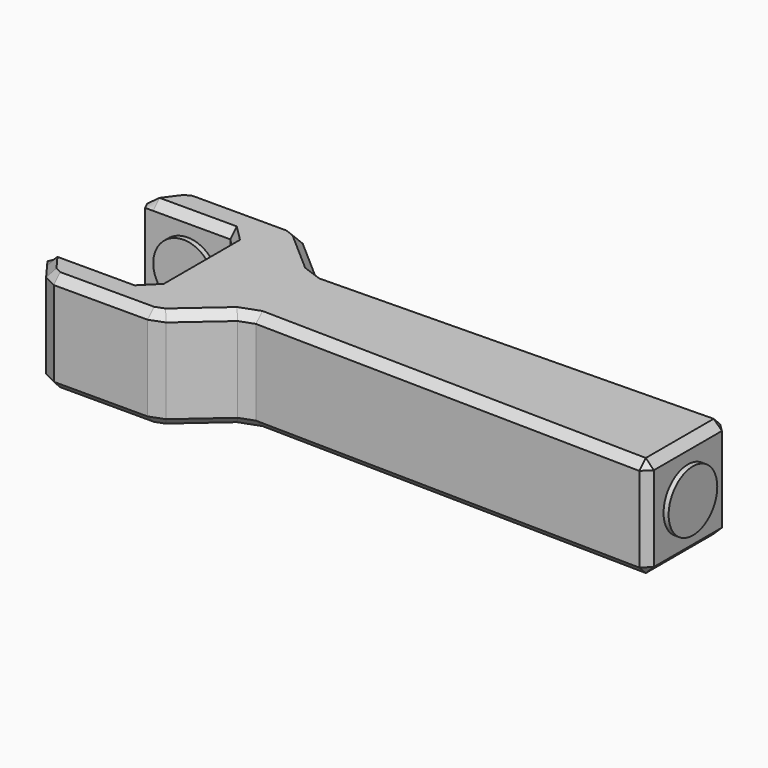
from build123d import *

# Parameters (mm, degrees)
PAD_DEPTH    = 100
SKETCH001_R  = 30
PAD001_DEPTH = 5
SKETCH002_R  = 30
PAD002_DEPTH = 5
SKETCH003_R  = 30
PAD003_DEPTH = 5
CHAMFER_SIZE = 8


with BuildPart() as part:
    # Sketch → Pad (new body)
    with BuildSketch(Plane.XY):
        Polygon((-561.998413, 89.533562), (-587.486856, 55), (-487.486856, 55), (-487.486856, -55), (-587.486856, -55), (-561.998413, -89.533562), (-453.451935, -89.533562), (-399.93382, -42.724046), (0, -50), (0, 50), (-399.93382, 42.724046), (-453.451935, 89.533562), align=None)
    extrude(amount=PAD_DEPTH)

    # Sketch001 (on Face9 of Pad) → Pad001 (join)
    with BuildSketch(Plane.YZ):
        with Locations((0, 50)):
            Circle(SKETCH001_R)
    extrude(amount=PAD001_DEPTH)

    # Sketch002 (on Face3 of Pad001) → Pad002 (join)
    with BuildSketch(Plane.XZ.offset(-55)):
        with Locations((-537.486856, 50)):
            Circle(SKETCH002_R)
    extrude(amount=PAD002_DEPTH)

    # Sketch003 (on Face9 of Pad002) → Pad003 (join)
    with BuildSketch(Plane(origin=(0, -55, 0), x_dir=(-1, 0, 0), z_dir=(0, 1, 0))):
        with Locations((537.486856, 50)):
            Circle(SKETCH003_R)
    extrude(amount=PAD003_DEPTH)

    # Chamfer
    chamfer_edges = [part.edges().sort_by_distance(p)[0] for p in [
        (-574.742634, 72.266781, 100),
        (-537.486856, 55, 100),
        (-487.486856, 0, 100),
        (-537.486856, -55, 100),
        (-574.742634, -72.266781, 100),
        (-507.725174, -89.533562, 100),
        (-426.692878, -66.128804, 100),
        (-199.96691, -46.362023, 100),
        (0, 0, 100),
        (-199.96691, 46.362023, 100),
        (-426.692878, 66.128804, 100),
        (-507.725174, 89.533562, 100),
        (-574.742634, 72.266781, 0),
        (-537.486856, 55, 0),
        (-487.486856, 0, 0),
        (-537.486856, -55, 0),
        (-574.742634, -72.266781, 0),
        (-507.725174, -89.533562, 0),
        (-426.692878, -66.128804, 0),
        (-199.96691, -46.362023, 0),
        (0, 0, 0),
        (-199.96691, 46.362023, 0),
        (-426.692878, 66.128804, 0),
        (-507.725174, 89.533562, 0),
        (-561.998413, -89.533562, 50),
        (-453.451935, -89.533562, 50),
        (-399.93382, -42.724046, 50),
        (0, -50, 50),
        (0, 50, 50),
        (-399.93382, 42.724046, 50),
        (-453.451935, 89.533562, 50),
        (-561.998413, 89.533562, 50),
        (-487.486856, 55, 50),
        (-487.486856, -55, 50),
        (-587.486856, 55, 50),
        (-587.486856, -55, 50),
    ]]
    chamfer(chamfer_edges, length=CHAMFER_SIZE)


solid = part.part
